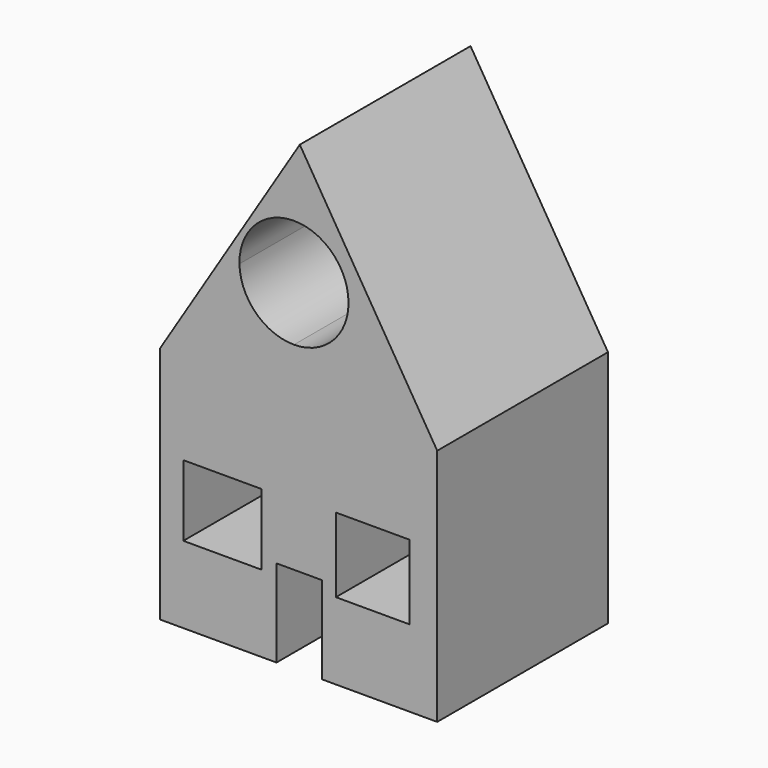
from build123d import *

# Parameters (mm, degrees)
F1_DEPTH = 54.61


with BuildPart() as f1:
    # F0 (on Front) → F1 (new body)
    with BuildSketch(Plane.XZ):
        Polygon((5.959777, 42.761397), (-29.798884, -14.750447), (41.122459, -14.750447), align=None)
        with BuildLine():
            ThreePointArc((18.427623, 11.213604), (18.427664, 11.194092), (18.427678, 11.174581))
            ThreePointArc((18.427678, 11.174581), (14.33952, 1.304895), (4.469833, -2.783263))
            ThreePointArc((4.469833, -2.783263), (-5.2948, 1.200948), (-9.484881, 10.879028))
            ThreePointArc((-9.484881, 10.879028), (-5.620119, 20.818972), (4.135268, 25.128415))
            ThreePointArc((4.135268, 25.128415), (14.206545, 21.175474), (18.427623, 11.213604))
        make_face(mode=Mode.SUBTRACT)
        Polygon((41.122459, -14.750447), (-29.798884, -14.750447), (-29.798884, -75.838156), (0, -75.838156), (0, -53.488996), (11.621564, -53.488996), (11.621564, -75.838156), (41.122459, -75.838156), align=None)
        Polygon((-23.839107, -47.082236), (-23.839107, -37.993576), (-13.856481, -37.993576), (-3.873855, -37.993576), (-3.873855, -47.082236), (-3.873855, -56.170896), (-13.856481, -56.170896), (-23.839107, -56.170896), align=None, mode=Mode.SUBTRACT)
        Polygon((24.58408, -37.099611), (33.970729, -37.099611), (33.970729, -46.635253), (33.970729, -56.170896), (24.58408, -56.170896), (15.197432, -56.170896), (15.197432, -46.635253), (15.197432, -37.099611), align=None, mode=Mode.SUBTRACT)
    extrude(amount=-F1_DEPTH)


solid = f1.part
